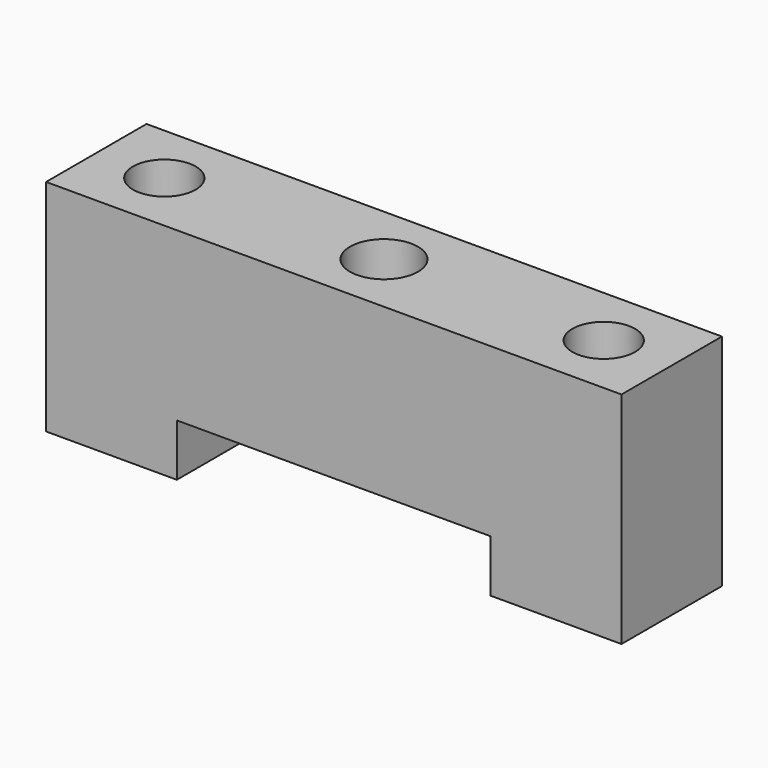
from build123d import *

# Parameters (mm, degrees)
F1_DEPTH = 12
F2_R     = 3
F2_R_2   = 3.25
F3_DEPTH = 21.001


with BuildPart() as f1:
    # F0 (on Front) → F1 (new body)
    with BuildSketch(Plane.XZ):
        Polygon((-15, 0), (0, 0), (15, 0), (15, -5), (27.5, -5), (27.5, 16), (0, 16), (-27.5, 16), (-27.5, -5), (-15, -5), align=None)
    extrude(amount=F1_DEPTH)

    # F2 (on face) → F3 (cut, through all)
    with BuildSketch(Plane.XY.offset(16)):
        with Locations((-21, -6)):
            Circle(F2_R)
        with Locations((21, -6)):
            Circle(F2_R)
        with Locations((0, -6)):
            Circle(F2_R_2)
    extrude(amount=-F3_DEPTH, mode=Mode.SUBTRACT)


solid = f1.part
